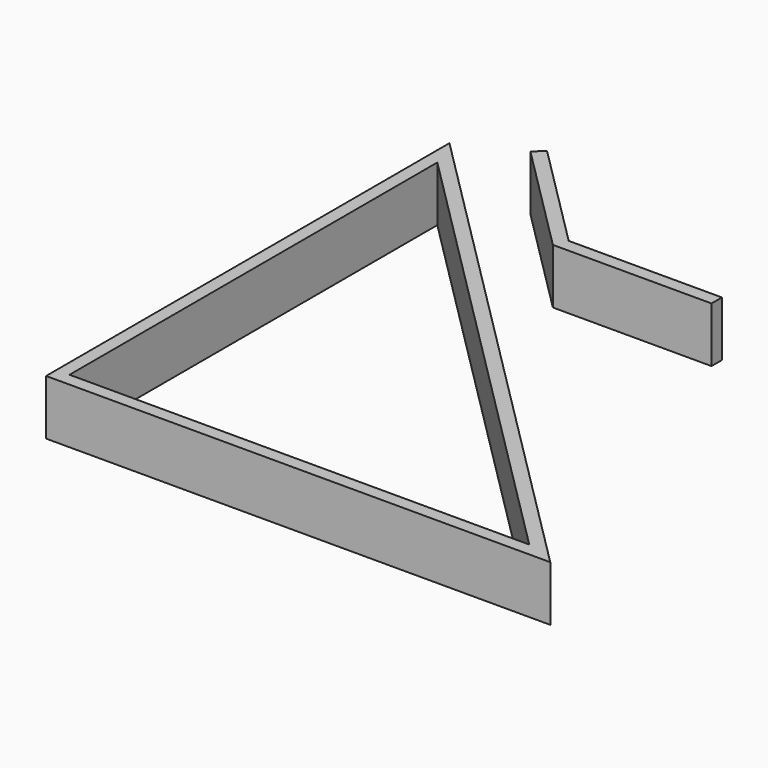
from build123d import *

# Parameters (mm, degrees)
F1_DEPTH = 9.144


with BuildPart() as f1:
    # F0 (on Top) → F1 (new body)
    with BuildSketch(Plane.XY):
        Polygon((3.978267, 11.816577), (30.272554, 11.816577), (30.272554, 13.975577), (4.872554, 13.975577), (-13.087958, 31.93609), (-14.614602, 30.409446), align=None)
        Polygon((-24.285163, -57.853486), (59.286124, -57.853486), (-24.285163, 25.717801), (-24.285163, -55.694486), align=None)
        Polygon((54.073837, -55.694486), (-22.126163, -55.694486), (-22.126163, 20.505514), align=None, mode=Mode.SUBTRACT)
    extrude(amount=F1_DEPTH)


solid = f1.part
